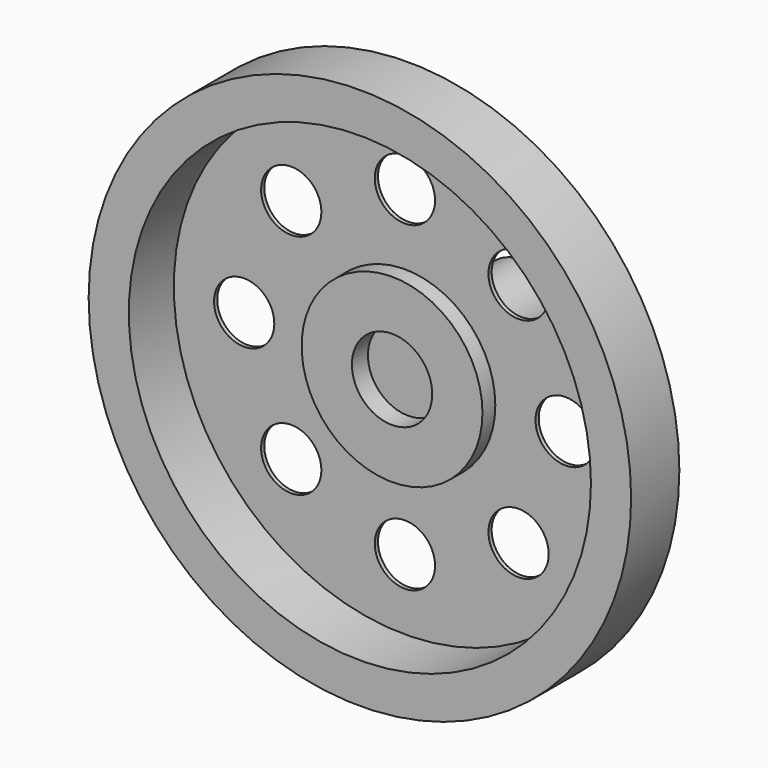
from build123d import *

# Parameters (mm, degrees)
F0_R     = 17.145
F0_R_2   = 14.605
F1_DEPTH = 3.81
F0_R_3   = 5.715
F0_R_4   = 2.54
F2_DEPTH = 1.27
F0_R_5   = 1.905
F3_DEPTH = 0.254
F4_DEPTH = 8.89
F5_R     = 1.905
F6_DEPTH = 6.35


with BuildPart() as f1:
    # F0 (on Front) → F1 (new body)
    with BuildSketch(Plane.XZ):
        Circle(F0_R)
        Circle(F0_R_2, mode=Mode.SUBTRACT)
    extrude(amount=F1_DEPTH)



with BuildPart() as f2:
    # F0 (on Front) → F2 (new body)
    with BuildSketch(Plane.XZ):
        Circle(F0_R_3)
        Circle(F0_R_4, mode=Mode.SUBTRACT)
    extrude(amount=F2_DEPTH)


with BuildPart() as f1_1:
    add(f1.part)

    add(f2.part)  # F3 merges F2
    # F0 (on Front) → F3 (join)
    with BuildSketch(Plane.XZ):
        Circle(F0_R_2)
        with Locations((-7.184205, -7.184205)):
            Circle(F0_R_5, mode=Mode.SUBTRACT)
        with Locations((0, -10.16)):
            Circle(F0_R_5, mode=Mode.SUBTRACT)
        with Locations((7.184205, -7.184205)):
            Circle(F0_R_5, mode=Mode.SUBTRACT)
        with Locations((-10.16, 0)):
            Circle(F0_R_5, mode=Mode.SUBTRACT)
        with Locations((-7.184205, 7.184205)):
            Circle(F0_R_5, mode=Mode.SUBTRACT)
        Circle(F0_R_3, mode=Mode.SUBTRACT)
        with Locations((7.184205, 7.184205)):
            Circle(F0_R_5, mode=Mode.SUBTRACT)
        with Locations((10.16, 0)):
            Circle(F0_R_5, mode=Mode.SUBTRACT)
        with Locations((0, 10.16)):
            Circle(F0_R_5, mode=Mode.SUBTRACT)
    extrude(amount=F3_DEPTH)

    # F0 (on Front) → F4 (join)
    with BuildSketch(Plane.XZ):
        Circle(F0_R_4)
    extrude(amount=-F4_DEPTH)

    # F5 (on face) → F6 (cut)
    with BuildSketch(Plane(origin=(0, 8.89, 0), x_dir=(-1, 0, 0), z_dir=(0, 1, 0))):
        Circle(F5_R)
    extrude(amount=-F6_DEPTH, mode=Mode.SUBTRACT)


solid = f1_1.part
